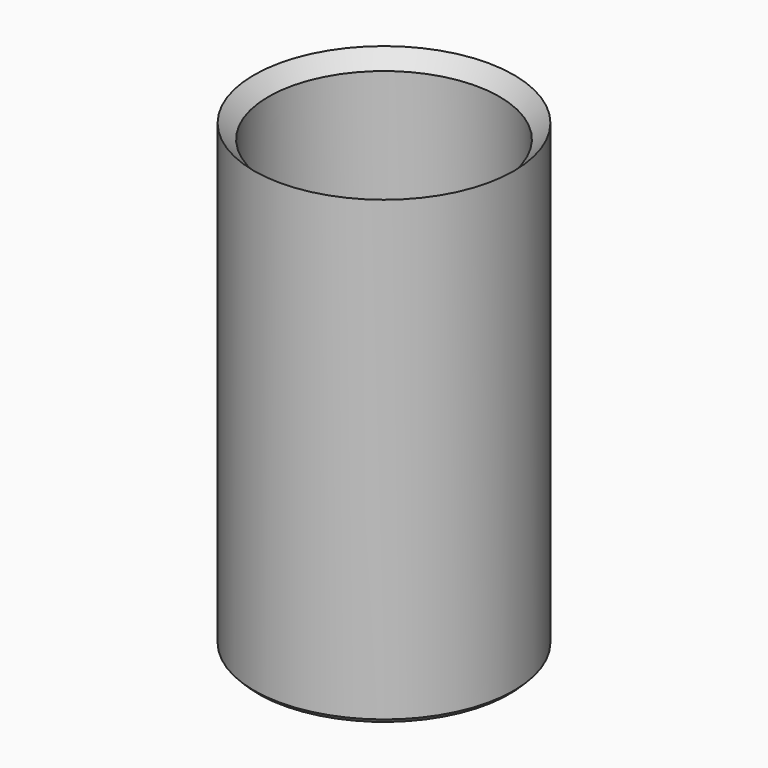
from build123d import *

# Parameters (mm, degrees)
F0_W           = 7.14375
F0_H           = 25.4
F3_D           = 12.7
F3_DEPTH       = 12.7
F3_CSINK_D     = 14.2875
F3_CSINK_ANGLE = 90
F3_TIP         = 3.8154649308
F5_DEPTH       = 12.7
F6_SIZE        = 0.254


with BuildPart() as f1:
    # F0 (on Front) → F1 (revolve)
    with BuildSketch(Plane.XZ):
        with Locations((-3.571875, -12.7)):
            Rectangle(F0_W, F0_H)
    revolve(axis=Axis((0, 0, -12.7), (0, 0, -1)))

    # F3
    with Locations(Plane.XY):
        with Locations((0, 0)):
            CounterSinkHole(F3_D / 2, F3_CSINK_D / 2, depth=F3_DEPTH, counter_sink_angle=F3_CSINK_ANGLE)
            with Locations((0, 0, -(F3_DEPTH + F3_TIP / 2))):  # 118° drill point
                Cone(0, F3_D / 2, F3_TIP, mode=Mode.SUBTRACT)

    # F4 (on face) → F5 (cut)
    with BuildSketch(Plane(origin=(0, 0, -25.4), x_dir=(1, 0, 0), z_dir=(0, 0, -1))):
        Polygon((-3.175, -1.3151280605), (-3.175, -3.175), (-1.3151280605, -3.175), align=None)
        Polygon((1.3151280605, -3.175), (-1.3151280605, -3.175), (0, -4.4901280605), align=None)
        Polygon((3.175, -1.3151280605), (1.3151280605, -3.175), (3.175, -3.175), align=None)
        Polygon((-3.175, 3.175), (-3.175, 1.3151280605), (-1.3151280605, 3.175), align=None)
        Polygon((0, 4.4901280605), (-1.3151280605, 3.175), (1.3151280605, 3.175), align=None)
        Polygon((1.3151280605, 3.175), (3.175, 1.3151280605), (3.175, 3.175), align=None)
        Polygon((-4.4901280605, 0), (-3.175, -1.3151280605), (-3.175, 1.3151280605), align=None)
        Polygon((-3.175, -1.3151280605), (-1.3151280605, -3.175), (1.3151280605, -3.175), (3.175, -1.3151280605), (3.175, 1.3151280605), (1.3151280605, 3.175), (-1.3151280605, 3.175), (-3.175, 1.3151280605), align=None)
        Polygon((3.175, 1.3151280605), (3.175, -1.3151280605), (4.4901280605, 0), align=None)
    extrude(amount=-F5_DEPTH, mode=Mode.SUBTRACT)

    # F6
    f6_edges = [f1.edges().sort_by_distance(p)[0] for p in [
        (7.14375, 0, -25.4),
    ]]
    chamfer(f6_edges, length=F6_SIZE)


solid = f1.part
